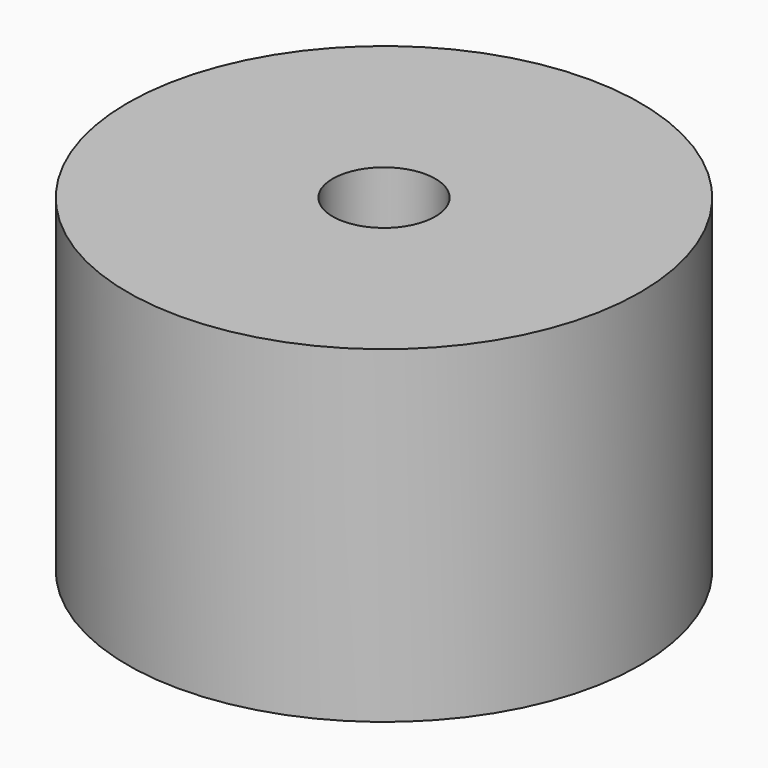
from build123d import *

# Parameters (mm, degrees)
CYLINDER005_R     = 2.5
CYLINDER005_DEPTH = 16
CYLINDER_R        = 12.5
CYLINDER_DEPTH    = 16


with BuildPart() as cylinder003:
    # Cylinder005 → Cylinder005 (new body)
    with BuildSketch(Plane(origin=(0, 0, 0), x_dir=(-1, 0, 0), z_dir=(0, 0, -1))):
        Circle(CYLINDER005_R)
    extrude(amount=CYLINDER005_DEPTH)


with BuildPart() as obj1:
    # Cylinder → Cylinder (new body)
    with BuildSketch(Plane(origin=(0, 0, 0), x_dir=(-1, 0, 0), z_dir=(0, 0, -1))):
        Circle(CYLINDER_R)
    extrude(amount=CYLINDER_DEPTH)

    # Cut001: cut Cylinder003
    add(cylinder003.part, mode=Mode.SUBTRACT)


with BuildPart() as obj1_1:
    # Cut001 placement: moved
    add(obj1.part.moved(Location((22, 22, -50))))


solid = obj1_1.part
